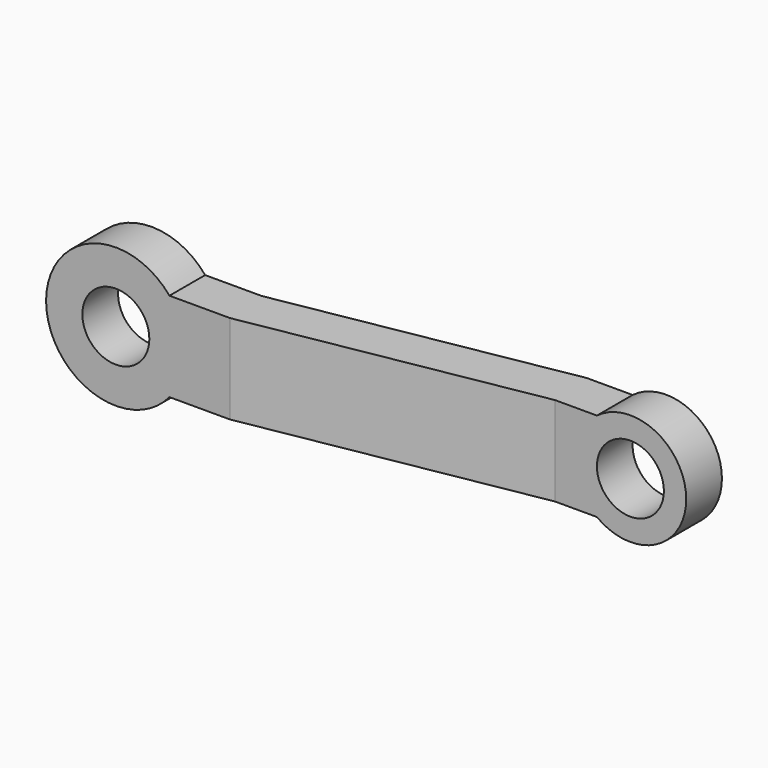
from build123d import *

# Parameters (mm, degrees)
F0_R     = 6
F1_DEPTH = 25
F3_DEPTH = 12.5


with BuildPart() as f1:
    # F0 (on Front) → F1 (new body)
    with BuildSketch(Plane.XZ):
        with BuildLine():
            Line((40.103297, 8), (-29.292017, 8))
            ThreePointArc((-29.292017, 8), (-51.396703, 0), (-29.292017, -8))
            Line((-29.292017, -8), (40.103297, -8))
            ThreePointArc((40.103297, -8), (56.103297, 0), (40.103297, 8))
        make_face()
        with Locations((-38.896703, 0)):
            Circle(F0_R, mode=Mode.SUBTRACT)
        with Locations((46.103297, 0)):
            Circle(F0_R, mode=Mode.SUBTRACT)
    extrude(amount=F1_DEPTH)

    # F2 (on Top) → F3 (intersect, symmetric)
    with BuildSketch(Plane.XY):
        Polygon((-19.159218, -9), (-51.396703, -9), (-51.396703, -17), (-18.459309, -17), (32.582227, -8), (56.103297, -8), (56.103297, 0), (31.882318, 0), align=None)
    extrude(amount=F3_DEPTH, both=True, mode=Mode.INTERSECT)


solid = f1.part
